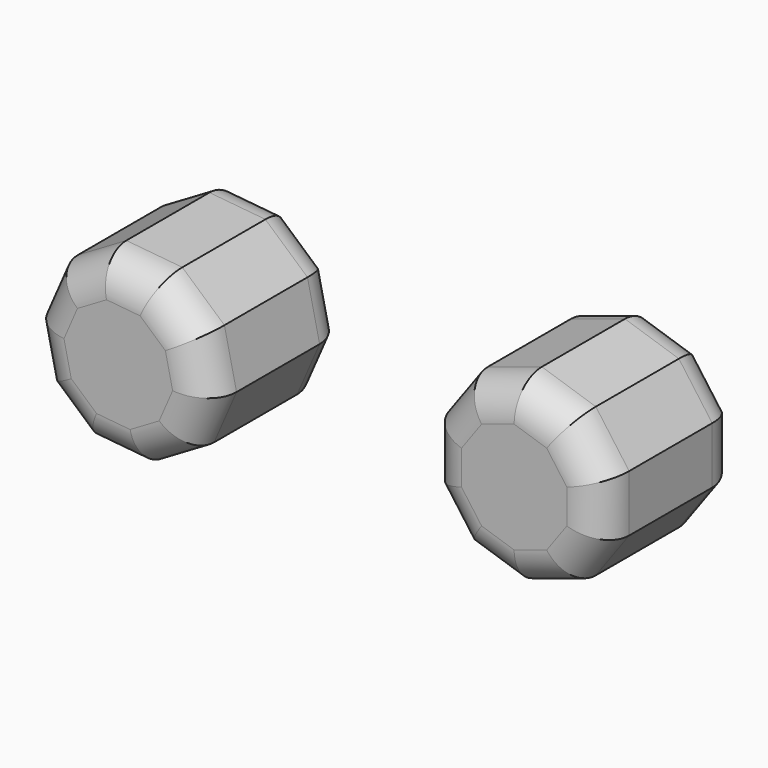
from build123d import *

# Parameters (mm, degrees)
F1_DEPTH = 25.4
F2_R     = 5.08


with BuildPart() as f1:
    # F0 (on Front) → F1 (new body)
    with BuildSketch(Plane.XZ):
        Polygon((13.291539, 1.296762), (11.508753, 9.354866), (5.330014, 14.826113), (-2.884608, 15.620673), (-9.997409, 11.435052), (-13.291539, 3.868014), (-11.508753, -4.190089), (-5.330014, -9.661336), (2.884608, -10.455897), (9.997409, -6.270275), align=None)
        Polygon((70.917666, 1.497548), (70.917666, 9.823325), (66.023898, 16.559019), (58.105614, 19.131826), (50.18733, 16.559019), (45.293561, 9.823325), (45.293561, 1.497548), (50.18733, -5.238146), (58.105614, -7.810953), (66.023898, -5.238146), align=None)
    extrude(amount=F1_DEPTH)

    # F2
    f2_edges = [f1.edges().sort_by_distance(p)[0] for p in [
        (6.441009, -25.4, -8.363086),
        (11.644474, -25.4, -2.486756),
        (12.400146, -25.4, 5.325814),
        (8.419384, -25.4, 12.090489),
        (1.222703, -25.4, 15.223393),
        (-6.441009, -25.4, 13.527863),
        (-11.644474, -25.4, 7.651533),
        (-12.400146, -25.4, -0.161037),
        (-8.419384, -25.4, -6.925712),
        (-1.222703, -25.4, -10.058616),
        (70.917666, -25.4, 5.660437),
        (68.470782, -25.4, 13.191172),
        (62.064756, -25.4, 17.845423),
        (54.146472, -25.4, 17.845423),
        (47.740446, -25.4, 13.191172),
        (45.293561, -25.4, 5.660437),
        (47.740446, -25.4, -1.870299),
        (54.146472, -25.4, -6.524549),
        (62.064756, -25.4, -6.524549),
        (68.470782, -25.4, -1.870299),
        (6.441009, 0, -8.363086),
        (11.644474, 0, -2.486756),
        (12.400146, 0, 5.325814),
        (8.419384, 0, 12.090489),
        (1.222703, 0, 15.223393),
        (-6.441009, 0, 13.527863),
        (-11.644474, 0, 7.651533),
        (-12.400146, 0, -0.161037),
        (-8.419384, 0, -6.925712),
        (-1.222703, 0, -10.058616),
        (70.917666, 0, 5.660437),
        (68.470782, 0, 13.191172),
        (62.064756, 0, 17.845423),
        (54.146472, 0, 17.845423),
        (47.740446, 0, 13.191172),
        (45.293561, 0, 5.660437),
        (47.740446, 0, -1.870299),
        (54.146472, 0, -6.524549),
        (62.064756, 0, -6.524549),
        (68.470782, 0, -1.870299),
    ]]
    fillet(f2_edges, radius=F2_R)


solid = f1.part
